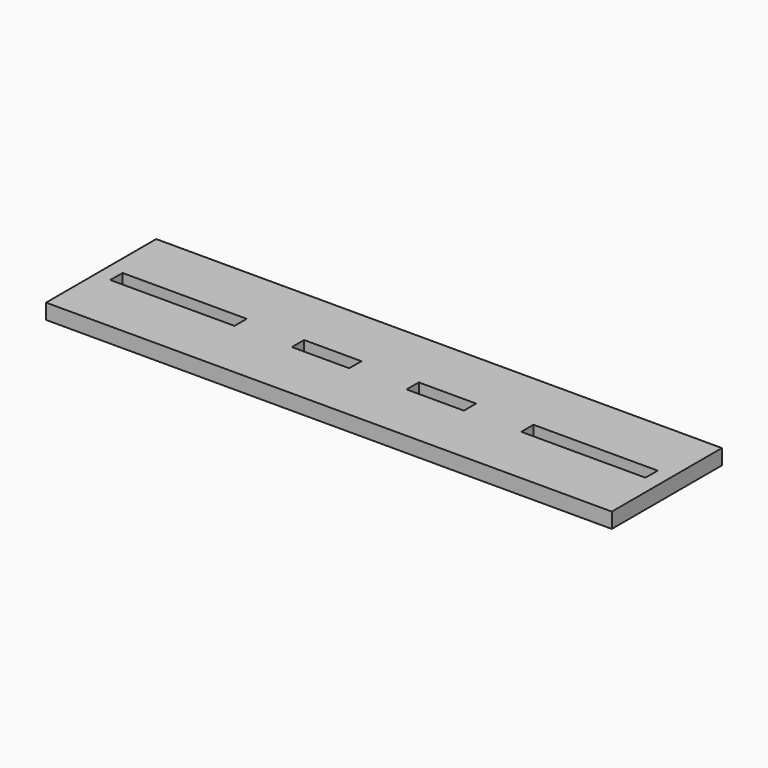
from build123d import *

# Parameters (mm, degrees)
F0_W     = 32.5
F0_H     = 4
F0_W_2   = 15
F1_DEPTH = 4


with BuildPart() as f1:
    # F0 (on Top) → F1 (new body)
    with BuildSketch(Plane.XY):
        Polygon((0, -16), (0, 0), (-148, 0), (-148, -16), (-148, -20), (-148, -36), (0, -36), (0, -20), align=None)
        with Locations((-127.75, -18)):
            Rectangle(F0_W, F0_H, mode=Mode.SUBTRACT)
        with Locations((-89, -18)):
            Rectangle(F0_W_2, F0_H, mode=Mode.SUBTRACT)
        with Locations((-59, -18)):
            Rectangle(F0_W_2, F0_H, mode=Mode.SUBTRACT)
        with Locations((-20.25, -18)):
            Rectangle(F0_W, F0_H, mode=Mode.SUBTRACT)
    extrude(amount=F1_DEPTH)


solid = f1.part
